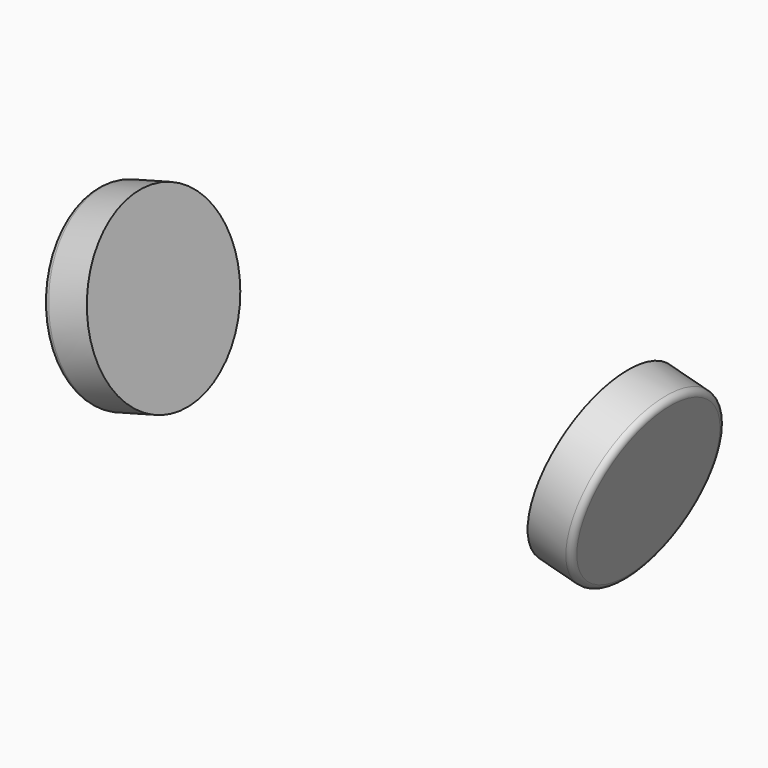
from build123d import *

# Parameters (mm, degrees)
F2_R     = 30
F3_DEPTH = 15
F5_R     = 2


with BuildPart() as f3:
    # F2 (on face) → F3 (new body)
    with BuildSketch(Plane(origin=(-72.444437, 0, -19.411428), x_dir=(0, -1, 0), z_dir=(-0.965926, 0, -0.258819))):
        Circle(F2_R)
    extrude(amount=F3_DEPTH)

    # F5
    f5_edges = [f3.edges().sort_by_distance(p)[0] for p in [
        (-86.933324, 30, -23.293714),
    ]]
    fillet(f5_edges, radius=F5_R)


with BuildPart() as f4_1:
    # F4: instance of F3
    add(f3.part.mirror(Plane.YZ))


solid = Compound([f3.part, f4_1.part])
